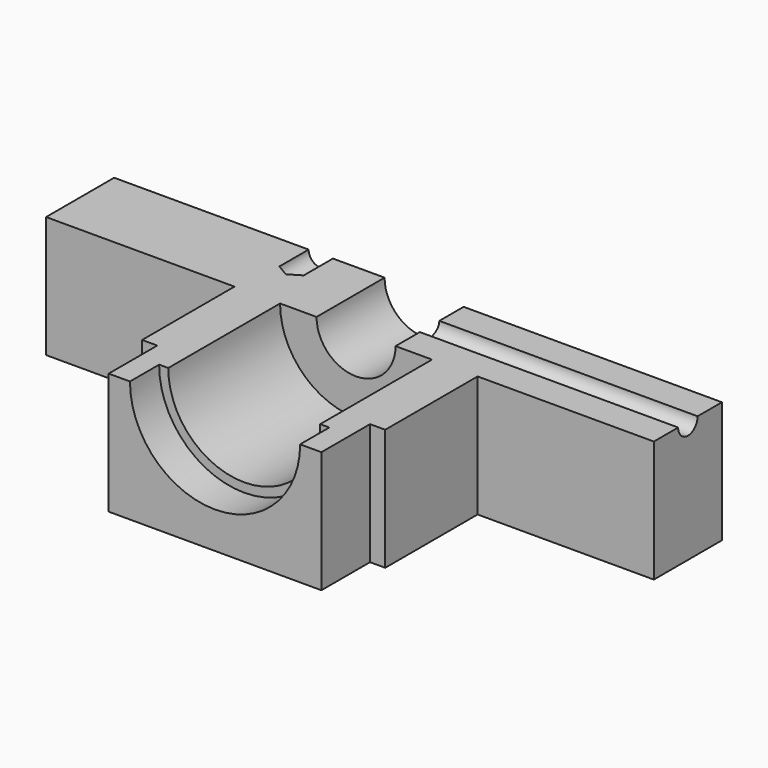
from build123d import *

# Parameters (mm, degrees)
PAD_DEPTH    = 20
SKETCH002_R  = 2
POCKET_DEPTH = 50


with BuildPart() as part:
    # Sketch → Pad (new body)
    with BuildSketch(Plane.XY):
        Polygon((-51, 0), (49, 0), (49, -14), (20, -14), (20, -33), (17.5, -33), (17.5, -43), (-17.5, -43), (-17.5, -33), (-20, -33), (-20, -14), (-51, -14), align=None)
    extrude(amount=-PAD_DEPTH)

    # Sketch001 → Groove (revolve, cut)
    with BuildSketch(Plane.XY):
        Polygon((0, 0), (6.5, 0), (6.5, -14), (12.5, -14), (12.5, -37), (14, -37), (14, -45), (0, -45), align=None)
    revolve(axis=Axis((0, 0, 0), (0, 1, 0)), mode=Mode.SUBTRACT)

    # Sketch002 → Pocket (cut)
    with BuildSketch(Plane.YZ):
        with Locations((-7, 0)):
            Circle(SKETCH002_R)
    extrude(amount=POCKET_DEPTH, mode=Mode.SUBTRACT)

    # Sketch003 → Groove001 (revolve, cut)
    with BuildSketch(Plane(origin=(-17, 0, 0), x_dir=(1, 0, 0), z_dir=(0, 0, 1))):
        Polygon((0, 0), (2, 0), (2, -6), (0, -7.201721), align=None)
    revolve(axis=Axis((-17, 0, 0), (0, 1, 0)), mode=Mode.SUBTRACT)


solid = part.part
